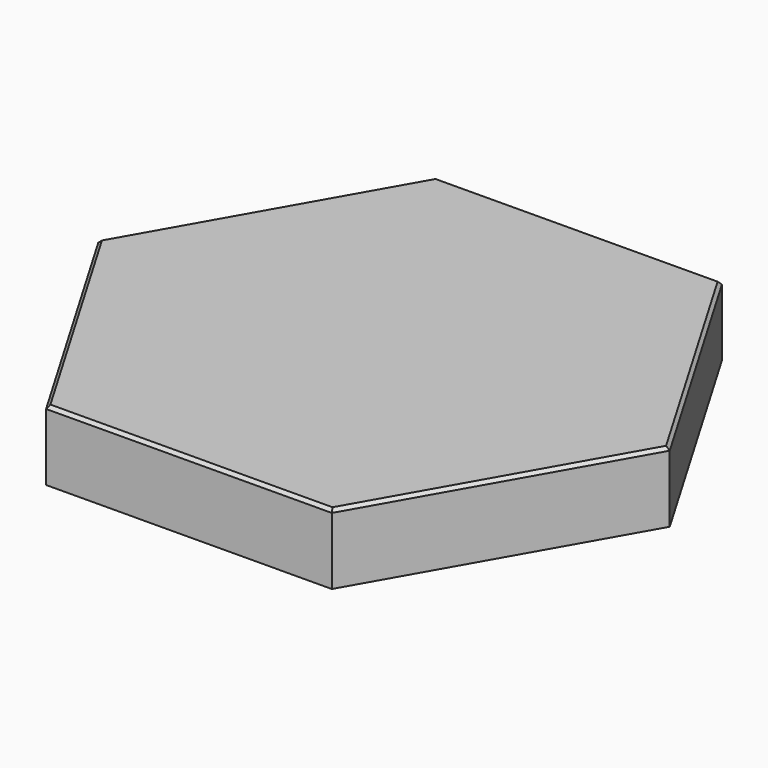
from build123d import *

# Parameters (mm, degrees)
F1_DEPTH = 28.194
F2_SIZE  = 1.27


with BuildPart() as f1:
    # F0 (on Top) → F1 (new body)
    with BuildSketch(Plane.XY):
        Polygon((-58.319778, 99.381641), (-114.723533, 0.034108), (-56.887923, -98.486744), (57.351443, -97.660062), (113.755198, 1.687471), (55.919588, 100.208323), align=None)
    extrude(amount=F1_DEPTH)

    # F2
    f2_edges = [f1.edges().sort_by_distance(p)[0] for p in [
        (-86.521655, 49.707875, 28.194),
        (-85.805728, -49.226318, 28.194),
        (0.23176, -98.073403, 28.194),
        (85.55332, -47.986296, 28.194),
        (84.837393, 50.947897, 28.194),
        (-1.200095, 99.794982, 28.194),
    ]]
    chamfer(f2_edges, length=F2_SIZE)


solid = f1.part
